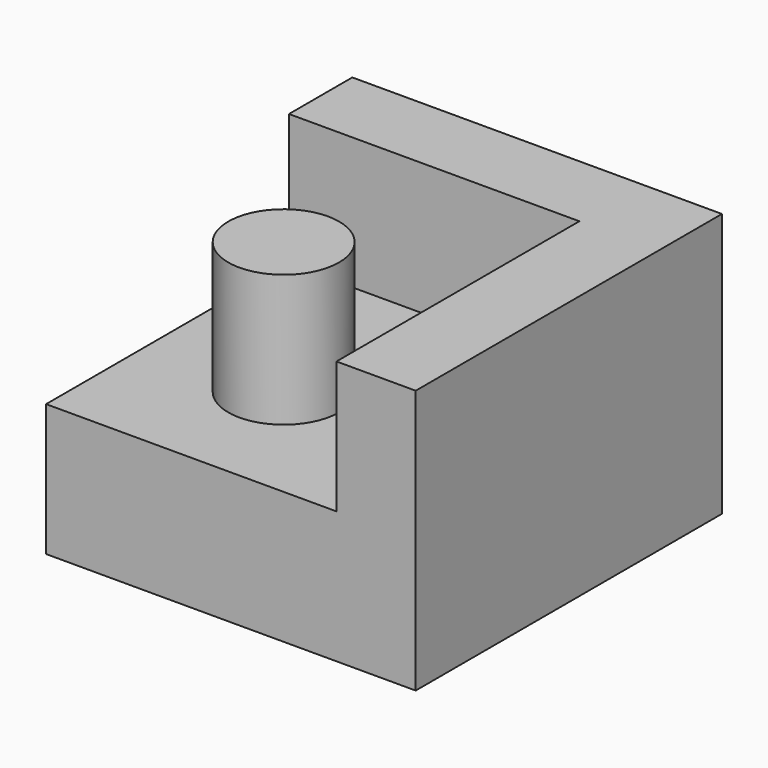
from build123d import *

# Parameters (mm, degrees)
CYLINDER_R     = 2.1
CYLINDER_DEPTH = 10
BOX002_W       = 3
BOX002_H       = 14.5
BOX002_DEPTH   = 10
BOX_W          = 11
BOX_H          = 11.5
BOX_DEPTH      = 5
BOX001_W       = 11
BOX001_H       = 3
BOX001_DEPTH   = 10


with BuildPart() as cylinder:
    # Cylinder → Cylinder (new body)
    with BuildSketch(Plane.XY):
        Circle(CYLINDER_R)
    extrude(amount=CYLINDER_DEPTH)


with BuildPart() as cube002:
    # Box002 → Box002 (new body)
    with BuildSketch(Plane(origin=(6, -5, 0), x_dir=(1, 0, 0), z_dir=(0, 0, 1))):
        with Locations((1.5, 7.25)):
            Rectangle(BOX002_W, BOX002_H)
    extrude(amount=BOX002_DEPTH)


with BuildPart() as cube:
    # Box → Box (new body)
    with BuildSketch(Plane(origin=(-5, -5, 0), x_dir=(1, 0, 0), z_dir=(0, 0, 1))):
        with Locations((5.5, 5.75)):
            Rectangle(BOX_W, BOX_H)
    extrude(amount=BOX_DEPTH)


with BuildPart() as fusion:
    # Box001 → Box001 (new body)
    with BuildSketch(Plane(origin=(-5, 6.5, 0), x_dir=(1, 0, 0), z_dir=(0, 0, 1))):
        with Locations((5.5, 1.5)):
            Rectangle(BOX001_W, BOX001_H)
    extrude(amount=BOX001_DEPTH)

    # Fusion: union Cylinder, Cube002, Cube
    add(cylinder.part)
    add(cube002.part)
    add(cube.part)


solid = fusion.part
